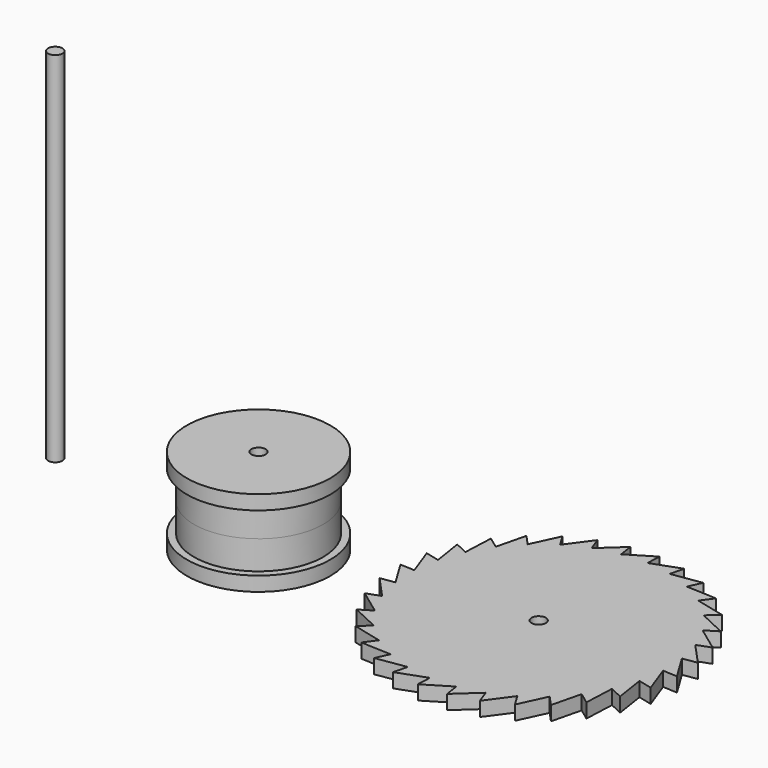
from build123d import *

# Parameters (mm, degrees)
F0_R     = 5
F0_R_2   = 4.5
F0_R_3   = 0.5
F1_DEPTH = 1
F2_DEPTH = 2
F4_R     = 0.5
F5_DEPTH = 1
F6_DEPTH = 25


with BuildPart() as f1:
    # F0 (on Top) → F1 (new body)
    with BuildSketch(Plane.XY):
        Circle(F0_R)
        Circle(F0_R_2, mode=Mode.SUBTRACT)
        Circle(F0_R_2)
        Circle(F0_R_3, mode=Mode.SUBTRACT)
    extrude(amount=-F1_DEPTH)

    # F0 (on Top) → F2 (join)
    with BuildSketch(Plane.XY):
        Circle(F0_R_2)
        Circle(F0_R_3, mode=Mode.SUBTRACT)
    extrude(amount=F2_DEPTH)

    # F3: F1 across face


with BuildPart() as f1_1:
    add(f1.part)
    add(f1.part.mirror(Plane.XY.offset(2)))


with BuildPart() as f5:
    # F4 (on Top) → F5 (new body)
    with BuildSketch(Plane.XY):
        Polygon((23.764091, 9.0617), (21.676977, 8.741381), (21.914979, 9.712645), (19.93046, 8.991306), (19.974405, 9.99034), (18.168744, 8.895699), (18.016942, 9.88411), (16.45953, 8.458236), (16.117816, 9.39804), (14.868503, 7.695728), (14.350009, 8.550809), (13.456806, 6.637477), (12.781456, 7.374975), (12.278688, 5.324152), (11.472436, 5.915725), (11.379425, 3.806223), (10.473255, 4.229136), (10.793574, 2.142022), (9.822309, 2.380025), (10.543649, 0.395505), (9.544615, 0.43945), (10.639255, -1.366211), (9.650844, -1.518012), (11.076718, -3.075425), (10.136914, -3.417139), (11.839227, -4.666451), (10.984146, -5.184946), (12.897477, -6.078149), (12.15998, -6.753499), (14.210803, -7.256267), (13.61923, -8.062518), (15.728732, -8.15553), (15.305819, -9.0617), (17.392933, -8.741381), (17.15493, -9.712645), (19.13945, -8.991306), (19.095505, -9.99034), (20.901166, -8.895699), (21.052967, -9.88411), (22.610379, -8.458236), (22.952093, -9.39804), (24.201406, -7.695728), (24.719901, -8.550809), (25.613104, -6.637477), (26.288454, -7.374975), (26.791221, -5.324152), (27.597473, -5.915725), (27.690485, -3.806223), (28.596655, -4.229136), (28.276336, -2.142022), (29.2476, -2.380025), (28.52626, -0.395505), (29.525294, -0.43945), (28.430654, 1.366211), (29.419065, 1.518012), (27.993191, 3.075425), (28.932995, 3.417139), (27.230683, 4.666451), (28.085764, 5.184946), (26.172432, 6.078149), (26.90993, 6.753499), (24.859107, 7.256267), (25.450679, 8.062518), (23.341177, 8.15553), align=None)
        with Locations((19.534955, 0)):
            Circle(F4_R, mode=Mode.SUBTRACT)
    extrude(amount=F5_DEPTH)


with BuildPart() as f6:
    # F4 (on Top) → F6 (new body)
    with BuildSketch(Plane.XY):
        with Locations((-14.178284, 0)):
            Circle(F4_R)
    extrude(amount=F6_DEPTH)


solid = Compound([f1_1.part, f5.part, f6.part])
